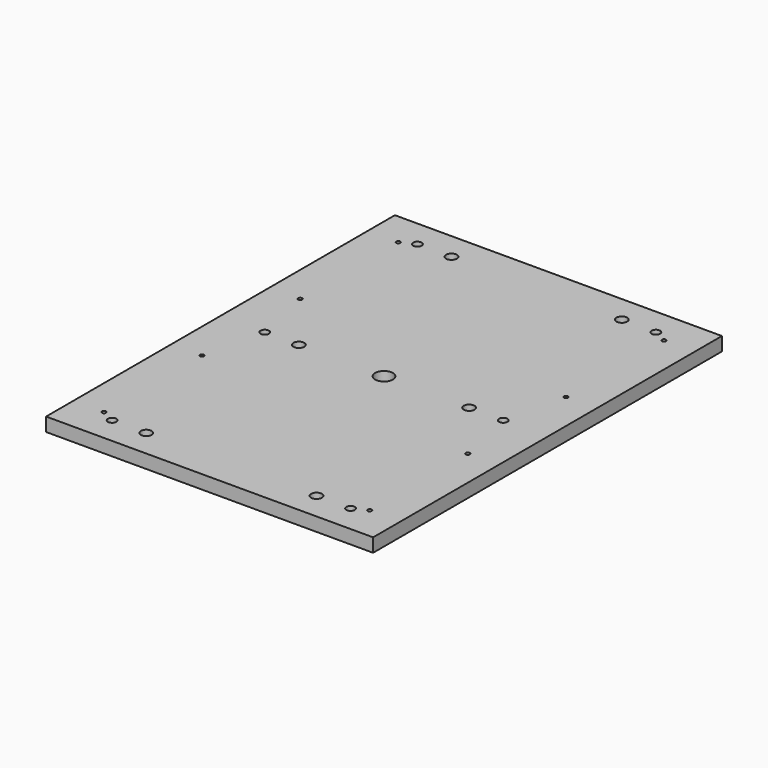
from build123d import *

# Parameters (mm, degrees)
F0_W     = 304.8
F0_H     = 12.7
F1_DEPTH = 406.4
F3_D     = 7.9375
F3_DEPTH = 20.6629
F3_TIP   = 2.3846655818
F4_D     = 10.0838
F4_DEPTH = 20.6756
F4_TIP   = 3.0294791551
F5_D     = 16.66748
F5_DEPTH = 19.1008
F5_TIP   = 5.0074161752
F7_D     = 3.7973
F7_DEPTH = 19.1008
F7_TIP   = 1.1408240143


with BuildPart() as f1:
    # F0 (on Front) → F1 (new body)
    with BuildSketch(Plane.XZ):
        with Locations((152.4, 6.35)):
            Rectangle(F0_W, F0_H)
    extrude(amount=F1_DEPTH)

    # F3
    with Locations(Plane.XY.offset(12.7)):
        with Locations((41.275, -381), (41.275, -203.2), (41.275, -25.4), (263.525, -25.4), (263.525, -203.2), (263.525, -381)):
            Hole(F3_D / 2, depth=F3_DEPTH)
            with Locations((0, 0, -(F3_DEPTH + F3_TIP / 2))):  # 118° drill point
                Cone(0, F3_D / 2, F3_TIP, mode=Mode.SUBTRACT)

    # F4
    with Locations(Plane.XY.offset(12.7)):
        with Locations((73.025, -381), (73.025, -203.2), (73.025, -25.4), (231.775, -381), (231.775, -203.2), (231.775, -25.4)):
            Hole(F4_D / 2, depth=F4_DEPTH)
            with Locations((0, 0, -(F4_DEPTH + F4_TIP / 2))):  # 118° drill point
                Cone(0, F4_D / 2, F4_TIP, mode=Mode.SUBTRACT)

    # F5
    with Locations(Plane.XY.offset(12.7)):
        with Locations((152.4, -203.2)):
            Hole(F5_D / 2, depth=F5_DEPTH)
            with Locations((0, 0, -(F5_DEPTH + F5_TIP / 2))):  # 118° drill point
                Cone(0, F5_D / 2, F5_TIP, mode=Mode.SUBTRACT)

    # F7
    with Locations(Plane.XY.offset(12.7)):
        with Locations((28.575, -31.75), (276.225, -31.75), (276.225, -146.05), (276.225, -260.35), (276.225, -374.65), (28.575, -374.65), (28.575, -260.35), (28.575, -146.05)):
            Hole(F7_D / 2, depth=F7_DEPTH)
            with Locations((0, 0, -(F7_DEPTH + F7_TIP / 2))):  # 118° drill point
                Cone(0, F7_D / 2, F7_TIP, mode=Mode.SUBTRACT)


solid = f1.part
